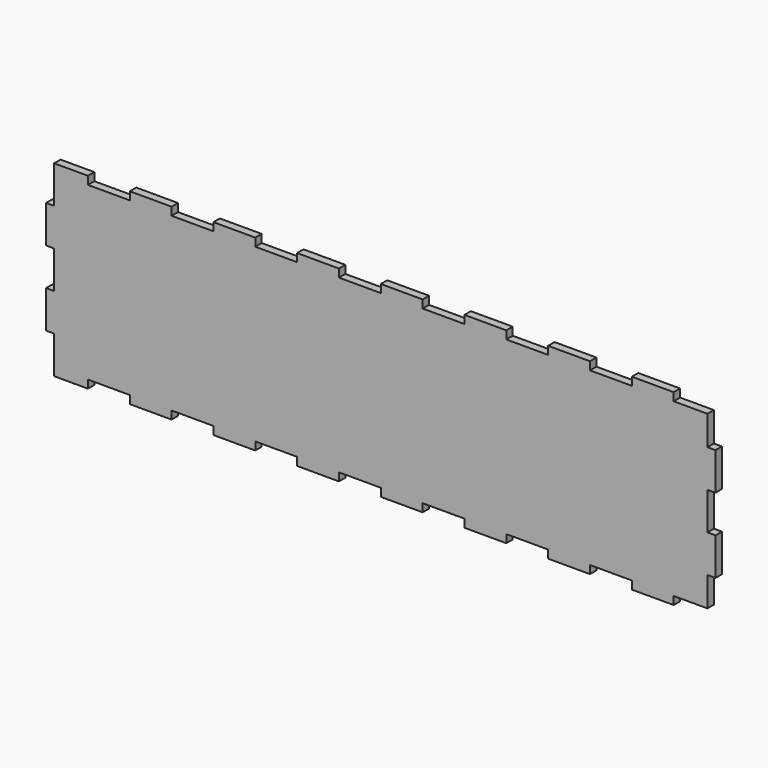
from build123d import *

# Parameters (mm, degrees)
F1_DEPTH = 3


with BuildPart() as f1:
    # F0 (on Front) → F1 (new body)
    with BuildSketch(Plane.XZ):
        Polygon((109.375, 32), (109.375, 35), (93.75, 35), (93.75, 32), (78.125, 32), (78.125, 35), (62.5, 35), (62.5, 32), (46.875, 32), (46.875, 35), (31.25, 35), (31.25, 32), (15.625, 32), (15.625, 35), (0, 35), (0, 32), (-15.625, 32), (-15.625, 35), (-31.25, 35), (-31.25, 32), (-46.875, 32), (-46.875, 35), (-62.5, 35), (-62.5, 32), (-78.125, 32), (-78.125, 35), (-93.75, 35), (-93.75, 32), (-109.375, 32), (-109.375, 35), (-122, 35), (-122, 21), (-125, 21), (-125, 7), (-122, 7), (-122, -7), (-125, -7), (-125, -21), (-122, -21), (-122, -35), (-109.375, -35), (-109.375, -32), (-93.75, -32), (-93.75, -35), (-78.125, -35), (-78.125, -32), (-62.5, -32), (-62.5, -35), (-46.875, -35), (-46.875, -32), (-31.25, -32), (-31.25, -35), (-15.625, -35), (-15.625, -32), (0, -32), (0, -35), (15.625, -35), (15.625, -32), (31.25, -32), (31.25, -35), (46.875, -35), (46.875, -32), (62.5, -32), (62.5, -35), (78.125, -35), (78.125, -32), (93.75, -32), (93.75, -35), (109.375, -35), (109.375, -32), (122, -32), (122, -21), (125, -21), (125, -7), (122, -7), (122, 7), (125, 7), (125, 21), (122, 21), (122, 32), align=None)
    extrude(amount=F1_DEPTH)


solid = f1.part
